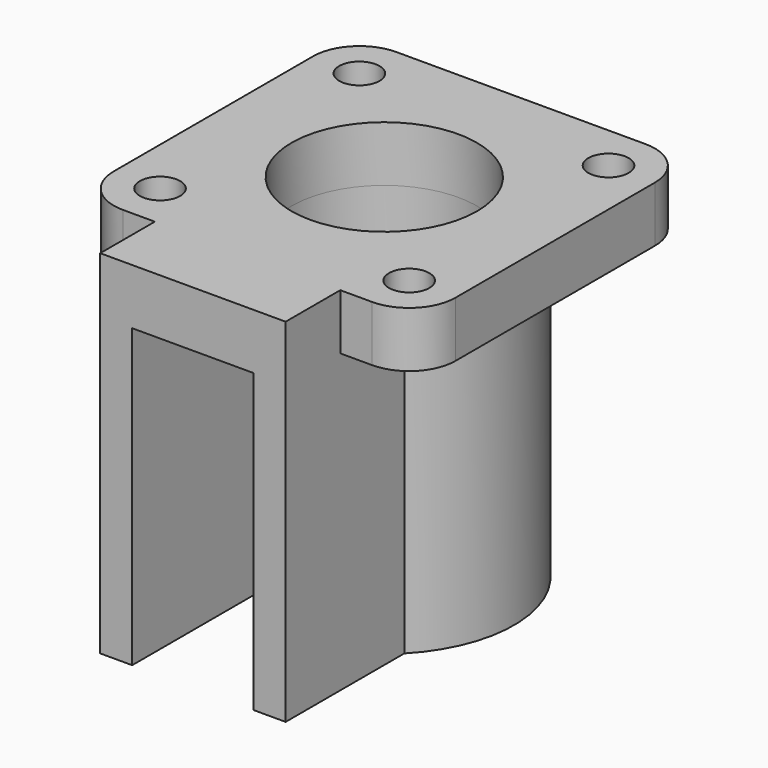
from build123d import *

# Parameters (mm, degrees)
F1_DEPTH = 25.4
F2_R     = 1.7272
F3_DEPTH = 4.7625
F4_R     = 3.96875


with BuildPart() as f1:
    # F0 (on Top) → F1 (new body)
    with BuildSketch(Plane.XY):
        with BuildLine():
            ThreePointArc((-10.4, 0), (-5.2, 13.934491), (0, 0))
            Line((0, 0), (0, -14.480139))
            Line((0, -14.480139), (2.7375, -14.480139))
            Line((2.7375, -14.480139), (2.7375, -1.780139))
            ThreePointArc((2.7375, -1.780139), (-5.2, 17.109491), (-13.1375, -1.780139))
            Line((-13.1375, -1.780139), (-13.1375, -14.480139))
            Line((-13.1375, -14.480139), (-10.4, -14.480139))
            Line((-10.4, -14.480139), (-10.4, 0))
        make_face()
    extrude(amount=F1_DEPTH)

    # F2 (on face) → F3 (join)
    with BuildSketch(Plane.XY.offset(25.4)):
        with BuildLine():
            Line((-19.832804, -8.635813), (-13.1375, -8.635813))
            Line((-13.1375, -8.635813), (-13.1375, -1.780139))
            ThreePointArc((-13.1375, -1.780139), (-5.2, 17.109491), (2.7375, -1.780139))
            Line((2.7375, -1.780139), (2.7375, -8.635813))
            Line((2.7375, -8.635813), (9.432804, -8.635813))
            Line((9.432804, -8.635813), (9.432804, 20.629796))
            Line((9.432804, 20.629796), (-19.832804, 20.629796))
            Line((-19.832804, 20.629796), (-19.832804, -8.635813))
        make_face()
        with Locations((-15.864054, -4.667063)):
            Circle(F2_R, mode=Mode.SUBTRACT)
        with Locations((5.464054, -4.667063)):
            Circle(F2_R, mode=Mode.SUBTRACT)
        with Locations((-15.864054, 16.661046)):
            Circle(F2_R, mode=Mode.SUBTRACT)
        with Locations((5.464054, 16.661046)):
            Circle(F2_R, mode=Mode.SUBTRACT)
        with BuildLine():
            Line((-13.1375, -8.635813), (-13.1375, -14.480139))
            Line((-13.1375, -14.480139), (-10.4, -14.480139))
            Line((-10.4, -14.480139), (-10.4, 0))
            ThreePointArc((-10.4, 0), (-8.496127, 13.217757), (2.7375, 5.996991))
            ThreePointArc((2.7375, 5.996991), (2.020765, 2.700864), (0, 0))
            Line((0, 0), (0, -14.480139))
            Line((0, -14.480139), (2.7375, -14.480139))
            Line((2.7375, -14.480139), (2.7375, -8.635813))
            Line((2.7375, -8.635813), (2.7375, -1.780139))
            ThreePointArc((2.7375, -1.780139), (-5.2, 17.109491), (-13.1375, -1.780139))
            Line((-13.1375, -1.780139), (-13.1375, -8.635813))
        make_face()
        with BuildLine():
            Line((-10.4, 0), (-10.4, -14.480139))
            Line((-10.4, -14.480139), (0, -14.480139))
            Line((0, -14.480139), (0, 0))
            ThreePointArc((0, 0), (-5.2, -1.940509), (-10.4, 0))
        make_face()
    extrude(amount=F3_DEPTH)

    # F4
    f4_edges = [f1.edges().sort_by_distance(p)[0] for p in [
        (-19.832804, -8.635813, 27.78125),
        (9.432804, -8.635813, 27.78125),
        (9.432804, 20.629796, 27.78125),
        (-19.832804, 20.629796, 27.78125),
    ]]
    fillet(f4_edges, radius=F4_R)


solid = f1.part
